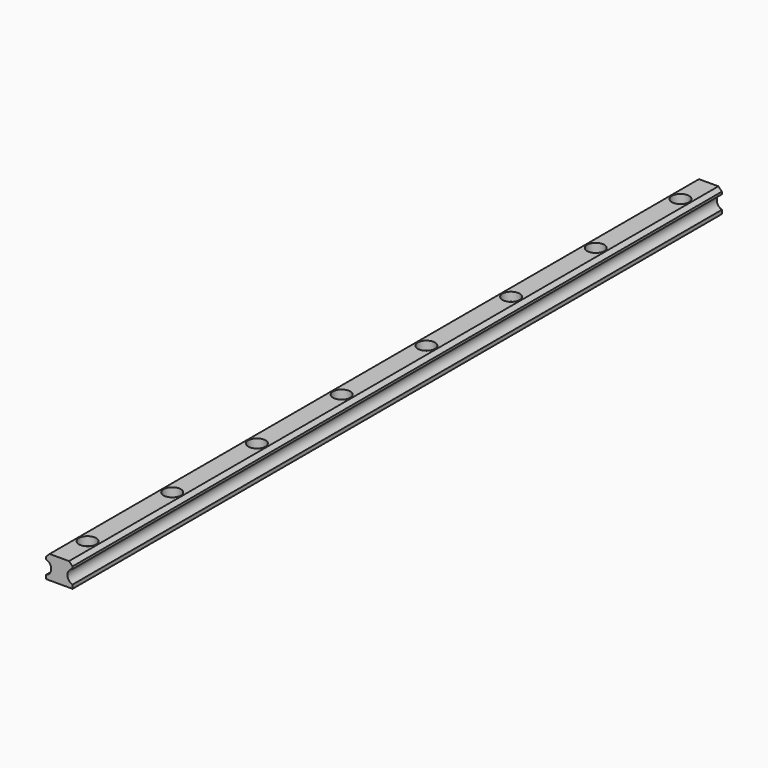
from build123d import *

# Parameters (mm, degrees)
F1_DEPTH       = 460
F3_D           = 5.5
F3_CBORE_D     = 9.75
F3_CBORE_DEPTH = 5


with BuildPart() as f1:
    # F0 (on Front) → F1 (new body)
    with BuildSketch(Plane.XZ):
        with BuildLine():
            Line((-7.5, 2.1513768696), (-7.5, 0))
            Line((-7.5, 0), (7.5, 0))
            Line((7.5, 0), (7.5, 2.1513768696))
            ThreePointArc((7.5, 2.1513768696), (4.59, 6), (7.5, 9.8486231304))
            Line((7.5, 9.8486231304), (7.5, 11.2))
            Line((7.5, 11.2), (5.5, 13.2))
            Line((5.5, 13.2), (-5.5, 13.2))
            Line((-5.5, 13.2), (-7.5, 11.2))
            Line((-7.5, 11.2), (-7.5, 9.8486231304))
            ThreePointArc((-7.5, 9.8486231304), (-4.59, 6), (-7.5, 2.1513768696))
        make_face()
    extrude(amount=F1_DEPTH)

    # F3 (through all)
    with Locations(Plane.XY.offset(13.2)):
        with Locations((0, -20), (0, -80), (0, -140), (0, -200), (0, -260), (0, -320), (0, -380), (0, -440)):
            CounterBoreHole(F3_D / 2, F3_CBORE_D / 2, F3_CBORE_DEPTH)


solid = f1.part
